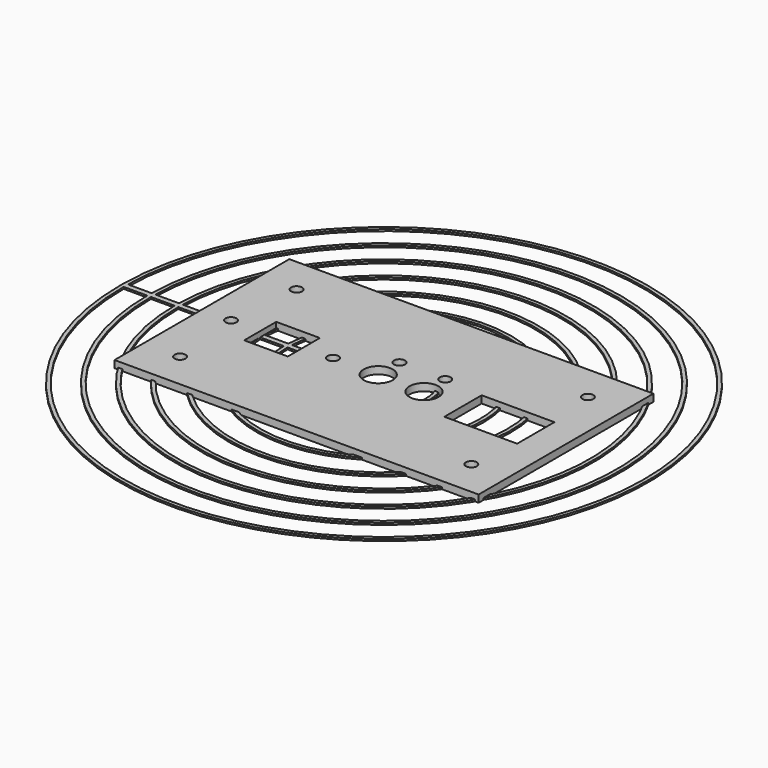
from build123d import *

# Parameters (mm, degrees)
F0_W     = 100
F0_H     = 60
F0_R     = 1.5
F0_W_2   = 12
F0_H_2   = 11
F0_R_2   = 4
F0_W_3   = 20
F0_H_3   = 12.8
F1_DEPTH = 2
F3_DEPTH = 0.5


with BuildPart() as f1:
    # F0 (on Top) → F1 (new body)
    with BuildSketch(Plane.XY):
        Rectangle(F0_W, F0_H)
        with Locations((-40, -20)):
            Circle(F0_R, mode=Mode.SUBTRACT)
        with Locations((40, -20)):
            Circle(F0_R, mode=Mode.SUBTRACT)
        with Locations((-42, 0)):
            Circle(F0_R, mode=Mode.SUBTRACT)
        with Locations((-28, 0)):
            Rectangle(F0_W_2, F0_H_2, mode=Mode.SUBTRACT)
        with Locations((-14, 0)):
            Circle(F0_R, mode=Mode.SUBTRACT)
        with Locations((-1.5700934455, 0)):
            Circle(F0_R_2, mode=Mode.SUBTRACT)
        with Locations((-1.5700934455, 7.3)):
            Circle(F0_R, mode=Mode.SUBTRACT)
        with Locations((-40, 20)):
            Circle(F0_R, mode=Mode.SUBTRACT)
        with Locations((10.9864281221, 0)):
            Circle(F0_R_2, mode=Mode.SUBTRACT)
        with Locations((10.9864281221, 7.3)):
            Circle(F0_R, mode=Mode.SUBTRACT)
        with Locations((31.7030341224, 0)):
            Rectangle(F0_W_3, F0_H_3, mode=Mode.SUBTRACT)
        with Locations((40, 20)):
            Circle(F0_R, mode=Mode.SUBTRACT)
    extrude(amount=F1_DEPTH)


with BuildPart() as f3:
    # F2 (on Top) → F3 (new body)
    with BuildSketch(Plane.XY):
        with BuildLine():
            ThreePointArc((-72.5, 0), (0, -72.5), (72.5, 0))
            ThreePointArc((72.5, 0), (0.7351889639, 72.4962722986), (-72.4850895776, 1.4703023261))
            Line((-72.4850895776, 1.4703023261), (-71.4848809964, 1.4703023261))
            ThreePointArc((-71.4848809964, 1.4703023261), (0.7351900289, 71.4962201492), (71.5, 0))
            ThreePointArc((71.5, 0), (0, -71.5), (-71.5, 0))
            Line((-71.5, 0), (-72.5, 0))
        make_face()
        with BuildLine():
            Line((-71.4848809964, 1.4703023261), (-72.4850895776, 1.4703023261))
            Line((-72.4850895776, 1.4703023261), (-72.5, 0))
            Line((-72.5, 0), (-71.5, 0))
            ThreePointArc((-71.5, 0), (-71.4962201492, 0.7351900289), (-71.4848809964, 1.4703023261))
        make_face()
        with BuildLine():
            Line((-64.9833687267, 1.4703023261), (-71.4848809964, 1.4703023261))
            ThreePointArc((-71.4848809964, 1.4703023261), (-71.4962201492, 0.7351900289), (-71.5, 0))
            Line((-71.5, 0), (-65, 0))
            ThreePointArc((-65, 0), (-64.9958420487, 0.7351981925), (-64.9833687267, 1.4703023261))
        make_face()
        with BuildLine():
            Line((-63.983108795, 1.4703023261), (-64.9833687267, 1.4703023261))
            ThreePointArc((-64.9833687267, 1.4703023261), (-64.9958420487, 0.7351981925), (-65, 0))
            Line((-65, 0), (-64, 0))
            ThreePointArc((-64, 0), (-63.9957770594, 0.735199674), (-63.983108795, 1.4703023261))
        make_face()
        with BuildLine():
            Line((-57.4811987616, 1.4703023261), (-63.983108795, 1.4703023261))
            ThreePointArc((-63.983108795, 1.4703023261), (-63.9957770594, 0.735199674), (-64, 0))
            Line((-64, 0), (-57.5, 0))
            ThreePointArc((-57.5, 0), (-57.4952994983, 0.735211265), (-57.4811987616, 1.4703023261))
        make_face()
        with BuildLine():
            Line((-56.4808658846, 1.4703023261), (-57.4811987616, 1.4703023261))
            ThreePointArc((-57.4811987616, 1.4703023261), (-57.4952994983, 0.735211265), (-57.5, 0))
            Line((-57.5, 0), (-56.5, 0))
            ThreePointArc((-56.5, 0), (-56.4952162686, 0.7352134119), (-56.4808658846, 1.4703023261))
        make_face()
        with BuildLine():
            Line((-49.9783774353, 1.4703023261), (-56.4808658846, 1.4703023261))
            ThreePointArc((-56.4808658846, 1.4703023261), (-56.4952162686, 0.7352134119), (-56.5, 0))
            Line((-56.5, 0), (-50, 0))
            ThreePointArc((-50, 0), (-49.9945940666, 0.7352306552), (-49.9783774353, 1.4703023261))
        make_face()
        with BuildLine():
            Line((-48.9779359617, 1.4703023261), (-49.9783774353, 1.4703023261))
            ThreePointArc((-49.9783774353, 1.4703023261), (-49.9945940666, 0.7352306552), (-50, 0))
            Line((-50, 0), (-49, 0))
            ThreePointArc((-49, 0), (-48.9944836799, 0.7352339342), (-48.9779359617, 1.4703023261))
        make_face()
        with BuildLine():
            Line((-42.4745595748, 1.4703023261), (-48.9779359617, 1.4703023261))
            ThreePointArc((-48.9779359617, 1.4703023261), (-48.9944836799, 0.7352339342), (-49, 0))
            Line((-49, 0), (-42.5, 0))
            ThreePointArc((-42.5, 0), (-42.4936394177, 0.7352612028), (-42.4745595748, 1.4703023261))
        make_face()
        with BuildLine():
            Line((-41.4739461719, 1.4703023261), (-42.4745595748, 1.4703023261))
            ThreePointArc((-42.4745595748, 1.4703023261), (-42.4936394177, 0.7352612028), (-42.5, 0))
            Line((-42.5, 0), (-41.5, 0))
            ThreePointArc((-41.5, 0), (-41.4934860317, 0.7352665727), (-41.4739461719, 1.4703023261))
        make_face()
        with BuildLine():
            Line((-34.9691036641, 1.4703023261), (-41.4739461719, 1.4703023261))
            ThreePointArc((-41.4739461719, 1.4703023261), (-41.4934860317, 0.7352665727), (-41.5, 0))
            Line((-41.5, 0), (-35, 0))
            ThreePointArc((-35, 0), (-34.9922750635, 0.7353134559), (-34.9691036641, 1.4703023261))
        make_face()
        with BuildLine():
            Line((-33.9681941096, 1.4703023261), (-34.9691036641, 1.4703023261))
            ThreePointArc((-34.9691036641, 1.4703023261), (-34.9922750635, 0.7353134559), (-35, 0))
            Line((-35, 0), (-34, 0))
            ThreePointArc((-34, 0), (-33.9920475974, 0.7353231508), (-33.9681941096, 1.4703023261))
        make_face()
        with BuildLine():
            Line((-27.4606666174, 1.4703023261), (-33.9681941096, 1.4703023261))
            ThreePointArc((-33.9681941096, 1.4703023261), (-33.9920475974, 0.7353231508), (-34, 0))
            Line((-34, 0), (-27.5, 0))
            ThreePointArc((-27.5, 0), (-27.4901648956, 0.7354141767), (-27.4606666174, 1.4703023261))
        make_face()
        with BuildLine():
            Line((-26.4591800907, 1.4703023261), (-27.4606666174, 1.4703023261))
            ThreePointArc((-27.4606666174, 1.4703023261), (-27.4901648956, 0.7354141767), (-27.5, 0))
            Line((-27.5, 0), (-26.5, 0))
            ThreePointArc((-26.5, 0), (-26.489793057, 0.7354344286), (-26.4591800907, 1.4703023261))
        make_face()
        with BuildLine():
            Line((-19.945882058, 1.4703023261), (-26.4591800907, 1.4703023261))
            ThreePointArc((-26.4591800907, 1.4703023261), (-26.489793057, 0.7354344286), (-26.5, 0))
            Line((-26.5, 0), (-20, 0))
            ThreePointArc((-20, 0), (-19.9864659352, 0.7356489791), (-19.945882058, 1.4703023261))
        make_face()
        with BuildLine():
            Line((-18.9430253938, 1.4703023261), (-19.945882058, 1.4703023261))
            ThreePointArc((-19.945882058, 1.4703023261), (-19.9864659352, 0.7356489791), (-20, 0))
            Line((-20, 0), (-19, 0))
            ThreePointArc((-19, 0), (-18.9857510055, 0.7357029013), (-18.9430253938, 1.4703023261))
        make_face()
        with BuildLine():
            Line((-11.4056219063, 1.4703023261), (-12.4132272625, 1.4703023261))
            ThreePointArc((-12.4132272625, 1.4703023261), (-12.4782879591, 0.7364303154), (-12.5, 0))
            Line((-12.5, 0), (-11.5, 0))
            ThreePointArc((-11.5, 0), (-11.4763812224, 0.7366641288), (-11.4056219063, 1.4703023261))
        make_face()
        with BuildLine():
            ThreePointArc((12.5, 0), (0.7364303154, 12.4782879591), (-12.4132272625, 1.4703023261))
            Line((-12.4132272625, 1.4703023261), (-11.4056219063, 1.4703023261))
            ThreePointArc((-11.4056219063, 1.4703023261), (0.7366641288, 11.4763812224), (11.5, 0))
            ThreePointArc((11.5, 0), (0, -11.5), (-11.5, 0))
            Line((-11.5, 0), (-12.5, 0))
            ThreePointArc((-12.5, 0), (0, -12.5), (12.5, 0))
        make_face()
        with BuildLine():
            ThreePointArc((20, 0), (0.7356489791, 19.9864659352), (-19.945882058, 1.4703023261))
            Line((-19.945882058, 1.4703023261), (-18.9430253938, 1.4703023261))
            ThreePointArc((-18.9430253938, 1.4703023261), (0.7357029013, 18.9857510055), (19, 0))
            ThreePointArc((19, 0), (0, -19), (-19, 0))
            Line((-19, 0), (-20, 0))
            ThreePointArc((-20, 0), (0, -20), (20, 0))
        make_face()
        with BuildLine():
            ThreePointArc((27.5, 0), (0.7354141767, 27.4901648956), (-27.4606666174, 1.4703023261))
            Line((-27.4606666174, 1.4703023261), (-26.4591800907, 1.4703023261))
            ThreePointArc((-26.4591800907, 1.4703023261), (0.7354344286, 26.489793057), (26.5, 0))
            ThreePointArc((26.5, 0), (0, -26.5), (-26.5, 0))
            Line((-26.5, 0), (-27.5, 0))
            ThreePointArc((-27.5, 0), (0, -27.5), (27.5, 0))
        make_face()
        with BuildLine():
            ThreePointArc((35, 0), (0.7353134559, 34.9922750635), (-34.9691036641, 1.4703023261))
            Line((-34.9691036641, 1.4703023261), (-33.9681941096, 1.4703023261))
            ThreePointArc((-33.9681941096, 1.4703023261), (0.7353231508, 33.9920475974), (34, 0))
            ThreePointArc((34, 0), (0, -34), (-34, 0))
            Line((-34, 0), (-35, 0))
            ThreePointArc((-35, 0), (0, -35), (35, 0))
        make_face()
        with BuildLine():
            ThreePointArc((42.5, 0), (0.7352612028, 42.4936394177), (-42.4745595748, 1.4703023261))
            Line((-42.4745595748, 1.4703023261), (-41.4739461719, 1.4703023261))
            ThreePointArc((-41.4739461719, 1.4703023261), (0.7352665727, 41.4934860317), (41.5, 0))
            ThreePointArc((41.5, 0), (0, -41.5), (-41.5, 0))
            Line((-41.5, 0), (-42.5, 0))
            ThreePointArc((-42.5, 0), (0, -42.5), (42.5, 0))
        make_face()
        with BuildLine():
            ThreePointArc((50, 0), (0.7352306552, 49.9945940666), (-49.9783774353, 1.4703023261))
            Line((-49.9783774353, 1.4703023261), (-48.9779359617, 1.4703023261))
            ThreePointArc((-48.9779359617, 1.4703023261), (0.7352339342, 48.9944836799), (49, 0))
            ThreePointArc((49, 0), (0, -49), (-49, 0))
            Line((-49, 0), (-50, 0))
            ThreePointArc((-50, 0), (0, -50), (50, 0))
        make_face()
        with BuildLine():
            Line((-12.4132272625, 1.4703023261), (-18.9430253938, 1.4703023261))
            ThreePointArc((-18.9430253938, 1.4703023261), (-18.9857510055, 0.7357029013), (-19, 0))
            Line((-19, 0), (-12.5, 0))
            ThreePointArc((-12.5, 0), (-12.4782879591, 0.7364303154), (-12.4132272625, 1.4703023261))
        make_face()
        with BuildLine():
            ThreePointArc((57.5, 0), (0.735211265, 57.4952994983), (-57.4811987616, 1.4703023261))
            Line((-57.4811987616, 1.4703023261), (-56.4808658846, 1.4703023261))
            ThreePointArc((-56.4808658846, 1.4703023261), (0.7352134119, 56.4952162686), (56.5, 0))
            ThreePointArc((56.5, 0), (0, -56.5), (-56.5, 0))
            Line((-56.5, 0), (-57.5, 0))
            ThreePointArc((-57.5, 0), (0, -57.5), (57.5, 0))
        make_face()
        with BuildLine():
            ThreePointArc((65, 0), (0.7351981925, 64.9958420487), (-64.9833687267, 1.4703023261))
            Line((-64.9833687267, 1.4703023261), (-63.983108795, 1.4703023261))
            ThreePointArc((-63.983108795, 1.4703023261), (0.735199674, 63.9957770594), (64, 0))
            ThreePointArc((64, 0), (0, -64), (-64, 0))
            Line((-64, 0), (-65, 0))
            ThreePointArc((-65, 0), (0, -65), (65, 0))
        make_face()
    extrude(amount=F3_DEPTH)


solid = Compound([f1.part, f3.part])
